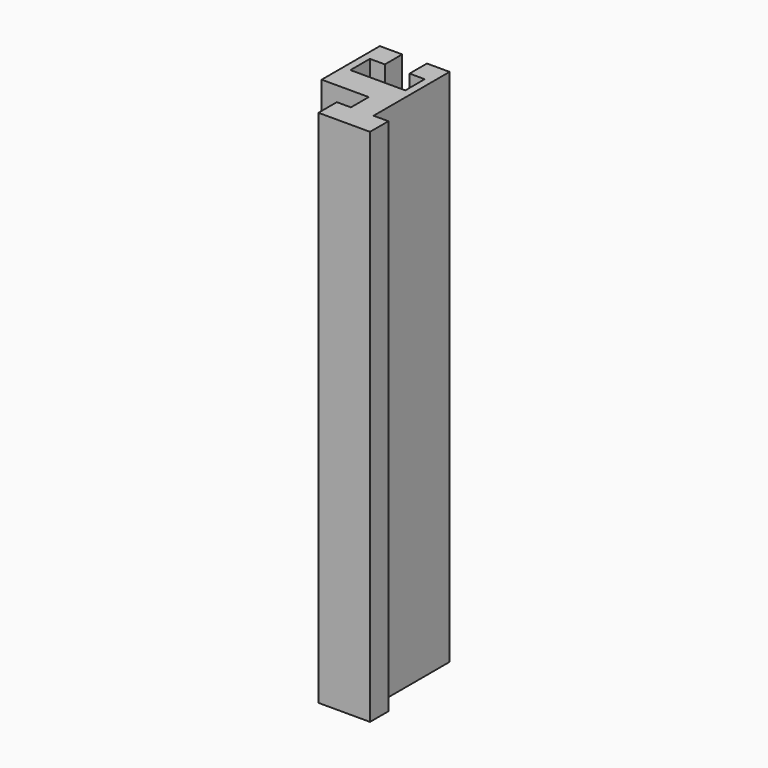
from build123d import *

# Parameters (mm, degrees)
F1_DEPTH = 35


with BuildPart() as f1:
    # F0 (on Top) → F1 (new body, symmetric)
    with BuildSketch(Plane.XY):
        Polygon((-35.18131, -0.02273), (-35.18131, -2.959028), (-33.13131, -2.959028), (-33.13131, -6.227403), (-40.53131, -6.227403), (-40.53131, -2.943149), (-38.510757, -2.943149), (-38.510757, -0.02273), (-41.53131, -0.02273), (-41.53131, -9.819706), (-35.18131, -9.819706), (-35.18131, -12.824379), (-37.08131, -12.824379), (-37.08131, -15.924379), (-30.13131, -15.924379), (-30.13131, -12.824379), (-32.13131, -12.824379), (-32.13131, -9.774379), (-32.13131, -0.02273), align=None)
    extrude(amount=F1_DEPTH, both=True)


solid = f1.part
